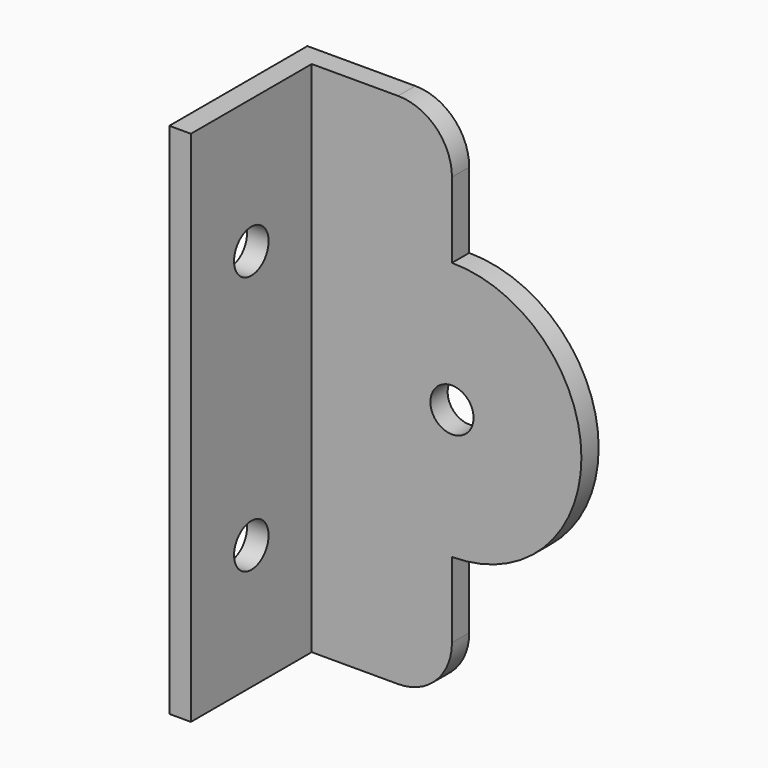
from build123d import *

# Parameters (mm, degrees)
F0_W     = 2
F0_H     = 48
F1_DEPTH = 16
F2_DEPTH = 2
F4_D     = 4
F6_D     = 4


with BuildPart() as f1:
    # F0 (on Front) → F1 (new body)
    with BuildSketch(Plane.XZ):
        with Locations((-6.5, 0)):
            Rectangle(F0_W, F0_H)
    extrude(amount=F1_DEPTH)

    # F0 (on Front) → F2 (join)
    with BuildSketch(Plane.XZ):
        with Locations((-6.5, 0)):
            Rectangle(F0_W, F0_H)
        with BuildLine():
            Line((-5.5, 24), (-5.5, -24))
            Line((-5.5, -24), (2.5, -24))
            ThreePointArc((2.5, -24), (6.035534, -22.535534), (7.5, -19))
            Line((7.5, -19), (7.5, -12))
            Line((7.5, -12), (7.5, 12))
            Line((7.5, 12), (7.5, 19))
            ThreePointArc((7.5, 19), (6.035534, 22.535534), (2.5, 24))
            Line((2.5, 24), (-5.5, 24))
        make_face()
        with BuildLine():
            Line((7.5, 12), (7.5, -12))
            ThreePointArc((7.5, -12), (19.5, 0), (7.5, 12))
        make_face()
    extrude(amount=F2_DEPTH)

    # F4 (through all)
    with Locations(Plane.XZ.offset(2)):
        with Locations((7.5, 0)):
            Hole(F4_D / 2)

    # F6 (through all)
    with Locations(Plane.YZ.offset(-5.5)):
        with Locations((-9, -12.428912), (-9, 11.571088)):
            Hole(F6_D / 2)


solid = f1.part
